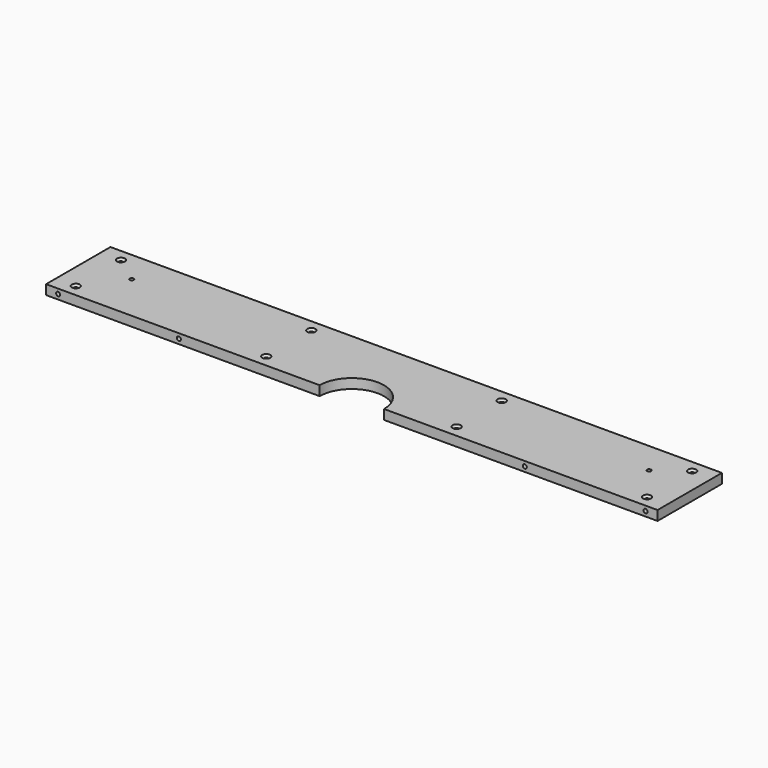
from build123d import *

# Parameters (mm, degrees)
F0_W            = 760
F0_H            = 100
F1_DEPTH        = 12
F3_D            = 5
F4_R            = 40
F5_DEPTH        = 25
F8_D            = 5
F8_DEPTH        = 20
F8_TIP          = 1.5021515476
F8_ON_F7_D      = 5
F8_ON_F7_DEPTH  = 20
F8_ON_F7_TIP    = 1.5021515476
F10_D           = 5
F10_CSINK_D     = 10
F10_CSINK_ANGLE = 90


with BuildPart() as f1:
    # F0 (on Top) → F1 (new body)
    with BuildSketch(Plane.XY):
        with Locations((380, 50)):
            Rectangle(F0_W, F0_H)
    extrude(amount=F1_DEPTH)

    # F3 (through all)
    with Locations(Plane.XY.offset(12)):
        with Locations((58.5, 60), (701.5, 60)):
            Hole(F3_D / 2)

    # F4 (on face) → F5 (cut)
    with BuildSketch(Plane.XY.offset(12)):
        with Locations((380, 0)):
            Circle(F4_R)
    extrude(amount=-F5_DEPTH, mode=Mode.SUBTRACT)

    # F8
    with Locations(Plane.XZ):
        with Locations((15, 6), (165, 6)):
            Hole(F8_D / 2, depth=F8_DEPTH)
            with Locations((0, 0, -(F8_DEPTH + F8_TIP / 2))):  # 118° drill point
                Cone(0, F8_D / 2, F8_TIP, mode=Mode.SUBTRACT)

    # F8 on F7
    with Locations(Plane.XZ):
        with Locations((595, 6), (745, 6)):
            Hole(F8_ON_F7_D / 2, depth=F8_ON_F7_DEPTH)
            with Locations((0, 0, -(F8_ON_F7_DEPTH + F8_ON_F7_TIP / 2))):  # 118° drill point
                Cone(0, F8_ON_F7_D / 2, F8_ON_F7_TIP, mode=Mode.SUBTRACT)

    # F10 (through all)
    with Locations(Plane.XY.offset(12)):
        with Locations((25, 15), (25, 85), (261.6666666667, 15), (261.6666666667, 85), (498.3333333333, 15), (498.3333333333, 85), (735, 85), (735, 15)):
            CounterSinkHole(F10_D / 2, F10_CSINK_D / 2, counter_sink_angle=F10_CSINK_ANGLE)


solid = f1.part
